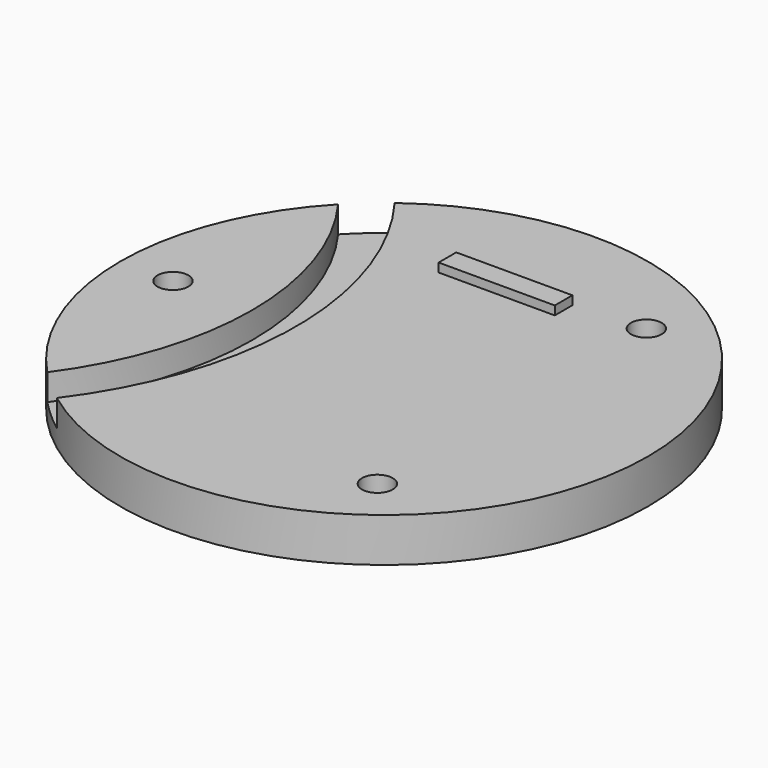
from build123d import *

# Parameters (mm, degrees)
SKETCH008_R     = 30
PAD004_DEPTH    = 5
SKETCH009_R     = 40
SKETCH009_R_2   = 35
POCKET002_DEPTH = 3
SKETCH015_R     = 1.75
POCKET008_DEPTH = 5
SKETCH038_W     = 13.2
SKETCH038_H     = 2.5
PAD009_DEPTH    = 1


with BuildPart() as part:
    # Sketch008 → Pad004 (new body)
    with BuildSketch(Plane.XY):
        Circle(SKETCH008_R)
    extrude(amount=PAD004_DEPTH)

    # Sketch009 (on Face3 of Pad004) → Pocket002 (cut)
    with BuildSketch(Plane.XY.offset(5)):
        with Locations((-50, 0)):
            Circle(SKETCH009_R)
        with Locations((-50, 0)):
            Circle(SKETCH009_R_2, mode=Mode.SUBTRACT)
    extrude(amount=-POCKET002_DEPTH, mode=Mode.SUBTRACT)

    # Sketch015 (on Face3 of Pocket002) → Pocket008 (cut)
    with BuildSketch(Plane.XY.offset(5)):
        with Locations((-24, 0)):
            Circle(SKETCH015_R)
        with Locations((14.520833, 19.108778)):
            Circle(SKETCH015_R)
        with Locations((14.520833, -19.108778)):
            Circle(SKETCH015_R)
    extrude(amount=-POCKET008_DEPTH, mode=Mode.SUBTRACT)

    # Sketch038 (on Face3 of Pocket008) → Pad009 (join)
    with BuildSketch(Plane.XY.offset(5)):
        with Locations((0, 17.25)):
            Rectangle(SKETCH038_W, SKETCH038_H)
    extrude(amount=PAD009_DEPTH)


solid = part.part
